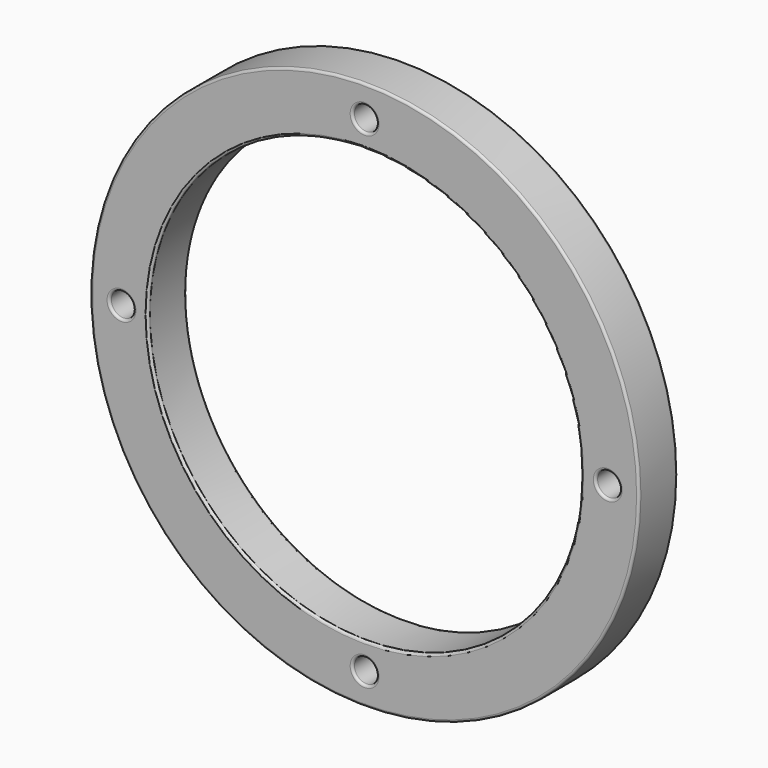
from build123d import *

# Parameters (mm, degrees)
CYLINDER003_R     = 2.5
CYLINDER003_DEPTH = 10
CYLINDER002_R     = 2.5
CYLINDER002_DEPTH = 10
CYLINDER001_R     = 2.5
CYLINDER001_DEPTH = 10
CYLINDER004_R     = 2.5
CYLINDER004_DEPTH = 10
CYLINDER009_R     = 45
CYLINDER009_DEPTH = 10
CYLINDER_R        = 57
CYLINDER_DEPTH    = 10
FILLET005_R       = 0.5


with BuildPart() as cylinder003:
    # Cylinder003 → Cylinder003 (new body)
    with BuildSketch(Plane(origin=(75, 0, 125.5), x_dir=(1, 0, 0), z_dir=(0, -1, 0))):
        Circle(CYLINDER003_R)
    extrude(amount=CYLINDER003_DEPTH)


with BuildPart() as cylinder002:
    # Cylinder002 → Cylinder002 (new body)
    with BuildSketch(Plane(origin=(75, 0, 24.5), x_dir=(1, 0, 0), z_dir=(0, -1, 0))):
        Circle(CYLINDER002_R)
    extrude(amount=CYLINDER002_DEPTH)


with BuildPart() as cylinder001:
    # Cylinder001 → Cylinder001 (new body)
    with BuildSketch(Plane(origin=(125.5, 0, 75), x_dir=(1, 0, 0), z_dir=(0, -1, 0))):
        Circle(CYLINDER001_R)
    extrude(amount=CYLINDER001_DEPTH)


with BuildPart() as cylinder004:
    # Cylinder004 → Cylinder004 (new body)
    with BuildSketch(Plane(origin=(24.5, 0, 75), x_dir=(1, 0, 0), z_dir=(0, -1, 0))):
        Circle(CYLINDER004_R)
    extrude(amount=CYLINDER004_DEPTH)


with BuildPart() as cylinder009:
    # Cylinder009 → Cylinder009 (new body)
    with BuildSketch(Plane(origin=(75, 0, 75), x_dir=(1, 0, 0), z_dir=(0, -1, 0))):
        Circle(CYLINDER009_R)
    extrude(amount=CYLINDER009_DEPTH)


with BuildPart() as obj1:
    # Cylinder → Cylinder (new body)
    with BuildSketch(Plane(origin=(75, 0, 75), x_dir=(1, 0, 0), z_dir=(0, -1, 0))):
        Circle(CYLINDER_R)
    extrude(amount=CYLINDER_DEPTH)

    # Cut011: cut Cylinder009
    add(cylinder009.part, mode=Mode.SUBTRACT)

    # Cut: cut Cylinder004
    add(cylinder004.part, mode=Mode.SUBTRACT)

    # Cut012: cut Cylinder001
    add(cylinder001.part, mode=Mode.SUBTRACT)

    # Cut013: cut Cylinder002
    add(cylinder002.part, mode=Mode.SUBTRACT)

    # Cut014: cut Cylinder003
    add(cylinder003.part, mode=Mode.SUBTRACT)

    # Fillet005
    fillet005_edges = [obj1.edges().sort_by_distance(p)[0] for p in [
        (18, -10, 75),
        (18, 0, 75),
        (72.5, -10, 24.5),
        (30, -10, 75),
        (72.5, -10, 125.5),
        (22, -10, 75),
        (123, -10, 75),
        (72.5, 0, 24.5),
        (30, 0, 75),
        (72.5, 0, 125.5),
        (22, 0, 75),
        (123, 0, 75),
    ]]
    fillet(fillet005_edges, radius=FILLET005_R)


with BuildPart() as obj1_1:
    # Fillet005 placement: moved
    add(obj1.part.moved(Location((0, 0, -0.5))))


solid = obj1_1.part
